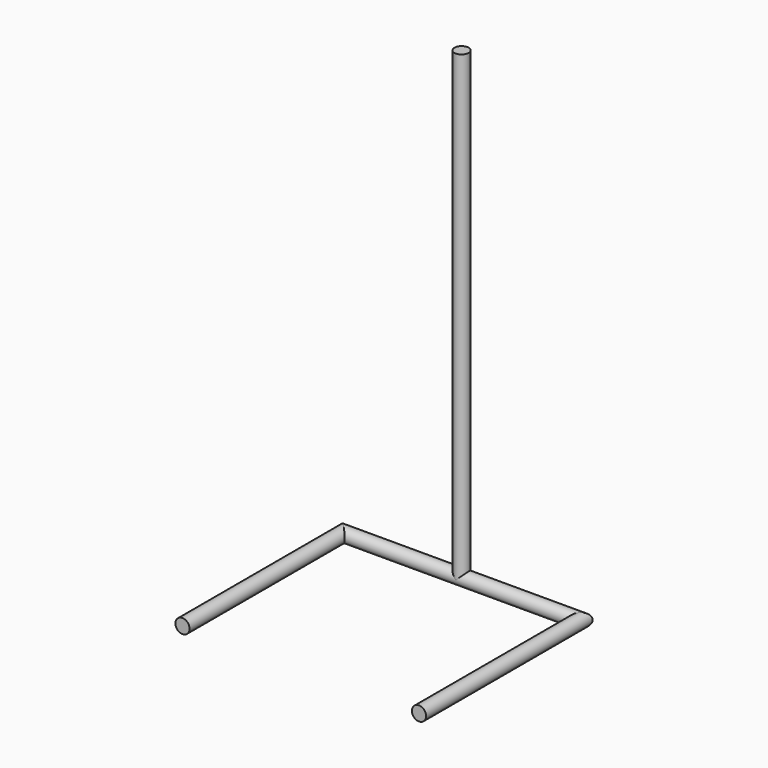
from build123d import *

# Parameters (mm, degrees)
F2_R = 30
F4_R = 30


with BuildPart() as f5:
    # F5: sweep along a path in F0
    with BuildLine(Plane.XY) as f5_path:
        Line((-500, -510.7751250267), (-500, 339.2248749733))
        Line((-500, 339.2248749733), (500, 339.2248749733))
        Line((500, 339.2248749733), (500, -510.7751250267))
    # F2 (on plane+point) → F5 (sweep)
    with BuildSketch(Plane.XZ.offset(510.7751250267)):
        with Locations((-500, 0)):
            Circle(F2_R)
    sweep(path=f5_path.line, transition=Transition.RIGHT)

    # F8: sweep along a path in F7
    with BuildLine(Plane.XZ.offset(-339.2248749733)) as f8_path:
        Line((0, 0), (0, 1960))
    # F4 (on plane+point) → F8 (sweep)
    with BuildSketch(Plane.XY):
        with Locations((0, 339.2248749733)):
            Circle(F4_R)
    sweep(path=f8_path.line)


solid = f5.part
